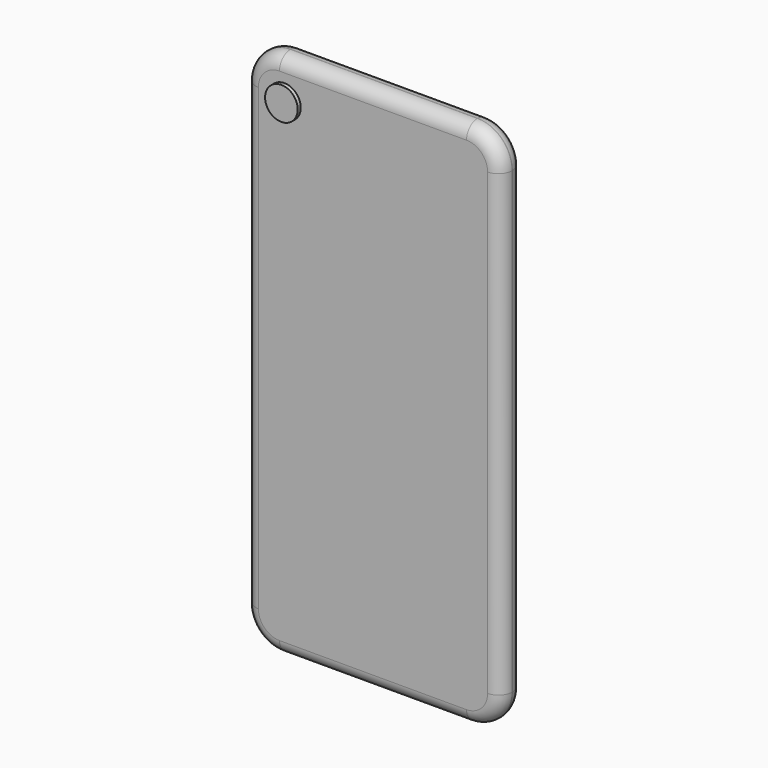
from build123d import *

# Parameters (mm, degrees)
F0_W     = 67.1
F0_H     = 138.3
F1_DEPTH = 7.2
F2_R     = 4.27
F3_DEPTH = 1
F4_R     = 9.08
F5_R     = 3.55


with BuildPart() as f1:
    # F0 (on Front) → F1 (new body)
    with BuildSketch(Plane.XZ):
        with Locations((0, 69.15)):
            Rectangle(F0_W, F0_H)
    extrude(amount=F1_DEPTH)

    # F2 (on face) → F3 (join)
    with BuildSketch(Plane.XZ.offset(7.2)):
        with Locations((-23.18, 128.13)):
            Circle(F2_R)
    extrude(amount=F3_DEPTH)

    # F4
    f4_edges = [f1.edges().sort_by_distance(p)[0] for p in [
        (-33.55, -3.6, 138.3),
        (33.55, -3.6, 138.3),
        (33.55, -3.6, 0),
        (-33.55, -3.6, 0),
    ]]
    fillet(f4_edges, radius=F4_R)

    # F5
    f5_edges = [f1.edges().sort_by_distance(p)[0] for p in [
        (0, -7.2, 138.3),
        (0, 0, 138.3),
    ]]
    fillet(f5_edges, radius=F5_R)


solid = f1.part
